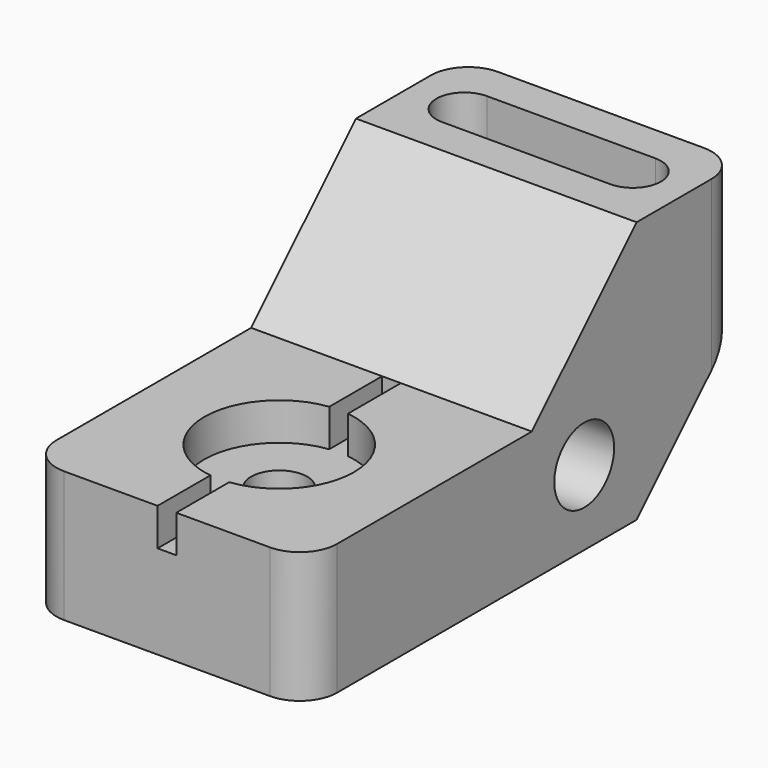
from build123d import *

# Parameters (mm, degrees)
F0_R           = 10.16
F1_DEPTH       = 38.1
F3_START       = 7.62
F3_DEPTH       = 27.941
F4_D           = 15.24
F4_CBORE_D     = 40.64
F4_CBORE_DEPTH = 10.16
F2_W           = 5.08
F2_H           = 76.2
F5_DEPTH       = 10.16
F6_R           = 10.16


with BuildPart() as f1:
    # F0 (on Right) → F1 (new body, symmetric)
    with BuildSketch(Plane.YZ):
        Polygon((-17.78, 15.24), (-93.98, 15.24), (-93.98, -20.32), (17.78, -20.32), (53.34, 15.24), (53.34, 50.8), (17.78, 50.8), align=None)
        Circle(F0_R, mode=Mode.SUBTRACT)
    extrude(amount=F1_DEPTH, both=True)

    # F2 (on face) → F3 (cut)
    with BuildSketch(Plane.XY.offset(15.24).offset(F3_START)):
        with BuildLine():
            Line((22.86, 43.18), (-22.86, 43.18))
            ThreePointArc((-22.86, 43.18), (-30.48, 35.56), (-22.86, 27.94))
            Line((-22.86, 27.94), (22.86, 27.94))
            ThreePointArc((22.86, 27.94), (30.48, 35.56), (22.86, 43.18))
        make_face()
    extrude(amount=F3_DEPTH, mode=Mode.SUBTRACT)

    # F4 (through all)
    with Locations(Plane.XY.offset(15.24)):
        with Locations((0, -55.88)):
            CounterBoreHole(F4_D / 2, F4_CBORE_D / 2, F4_CBORE_DEPTH)

    # F2 (on face) → F5 (cut)
    with BuildSketch(Plane.XY.offset(15.24)):
        with Locations((0, -55.88)):
            Rectangle(F2_W, F2_H)
    extrude(amount=-F5_DEPTH, mode=Mode.SUBTRACT)

    # F6
    f6_edges = [f1.edges().sort_by_distance(p)[0] for p in [
        (38.1, -93.98, -2.54),
        (-38.1, -93.98, -2.54),
        (38.1, 53.34, 33.02),
        (-38.1, 53.34, 33.02),
    ]]
    fillet(f6_edges, radius=F6_R)


solid = f1.part
